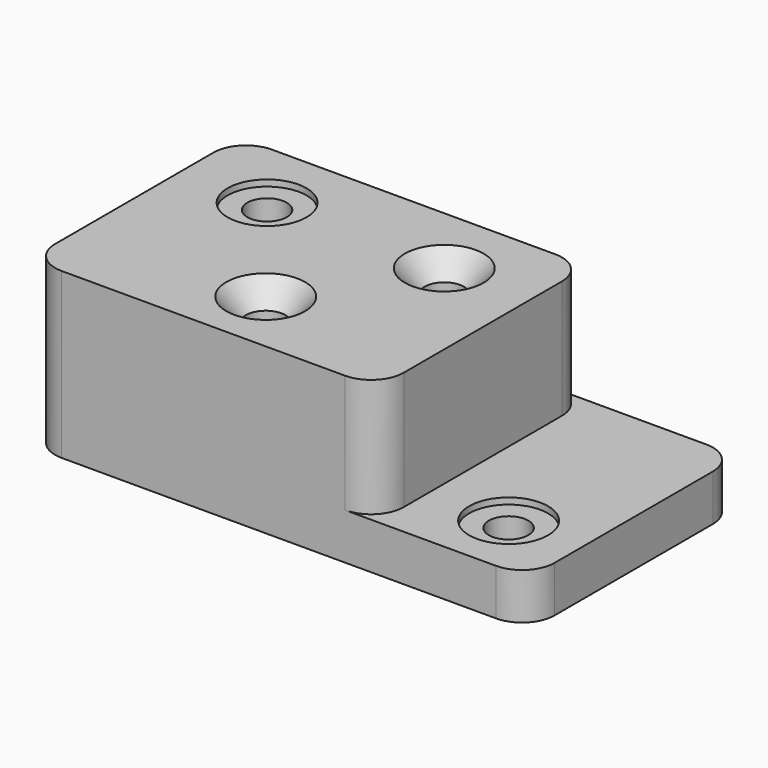
from build123d import *

# Parameters (mm, degrees)
F1_DEPTH       = 79.502
F2_DEPTH       = 22.352
F4_R           = 9.525
F3_R           = 9.525
F5_DEPTH       = 79.503
F4_R_2         = 19.05
F3_R_2         = 19.05
F6_DEPTH       = 3.048
F7_D           = 19.05
F7_CSINK_D     = 38.1
F7_CSINK_ANGLE = 82


with BuildPart() as f1:
    # F0 (on Top) → F1 (new body)
    with BuildSketch(Plane.XY):
        with BuildLine():
            ThreePointArc((0, 15.748), (4.612482, 4.612482), (15.748, 0))
            Line((15.748, 0), (152.654, 0))
            ThreePointArc((152.654, 0), (163.789518, 4.612482), (168.402, 15.748))
            Line((168.402, 15.748), (168.402, 111.252))
            ThreePointArc((168.402, 111.252), (163.789518, 122.387518), (152.654, 127))
            Line((152.654, 127), (15.748, 127))
            ThreePointArc((15.748, 127), (4.612482, 122.387518), (0, 111.252))
            Line((0, 111.252), (0, 15.748))
        make_face()
    extrude(amount=F1_DEPTH)

    # F0 (on Top) → F2 (join)
    with BuildSketch(Plane.XY):
        with BuildLine():
            ThreePointArc((0, 15.748), (4.612482, 4.612482), (15.748, 0))
            Line((15.748, 0), (152.654, 0))
            ThreePointArc((152.654, 0), (163.789518, 4.612482), (168.402, 15.748))
            Line((168.402, 15.748), (168.402, 111.252))
            ThreePointArc((168.402, 111.252), (163.789518, 122.387518), (152.654, 127))
            Line((152.654, 127), (15.748, 127))
            ThreePointArc((15.748, 127), (4.612482, 122.387518), (0, 111.252))
            Line((0, 111.252), (0, 15.748))
        make_face()
        with BuildLine():
            ThreePointArc((168.402, 15.748), (163.789518, 4.612482), (152.654, 0))
            Line((152.654, 0), (225.552, 0))
            ThreePointArc((225.552, 0), (236.687518, 4.612482), (241.3, 15.748))
            Line((241.3, 15.748), (241.3, 111.252))
            ThreePointArc((241.3, 111.252), (236.687518, 122.387518), (225.552, 127))
            Line((225.552, 127), (152.654, 127))
            ThreePointArc((152.654, 127), (163.789518, 122.387518), (168.402, 111.252))
            Line((168.402, 111.252), (168.402, 15.748))
        make_face()
    extrude(amount=F2_DEPTH)

    # F4 (on face) + F3 (on face) → F5 (cut, through all)
    with BuildSketch(Plane.XY.offset(79.502)):
        with Locations((41.402, 91.948)):
            Circle(F4_R)
    with BuildSketch(Plane.XY.offset(22.352)):
        with Locations((206.248, 31.75)):
            Circle(F3_R)
    extrude(amount=-F5_DEPTH, mode=Mode.SUBTRACT)

    # F4 (on face) + F3 (on face) → F6 (cut)
    with BuildSketch(Plane.XY.offset(79.502)):
        with Locations((41.402, 91.948)):
            Circle(F4_R_2)
        with Locations((41.402, 91.948)):
            Circle(F4_R, mode=Mode.SUBTRACT)
    with BuildSketch(Plane.XY.offset(22.352)):
        with Locations((206.248, 31.75)):
            Circle(F3_R_2)
        with Locations((206.248, 31.75)):
            Circle(F3_R, mode=Mode.SUBTRACT)
    extrude(amount=-F6_DEPTH, mode=Mode.SUBTRACT)

    # F7 (through all)
    with Locations(Plane.XY.offset(79.502)):
        with Locations((88.9, 31.75), (127, 91.948)):
            CounterSinkHole(F7_D / 2, F7_CSINK_D / 2, counter_sink_angle=F7_CSINK_ANGLE)


solid = f1.part
